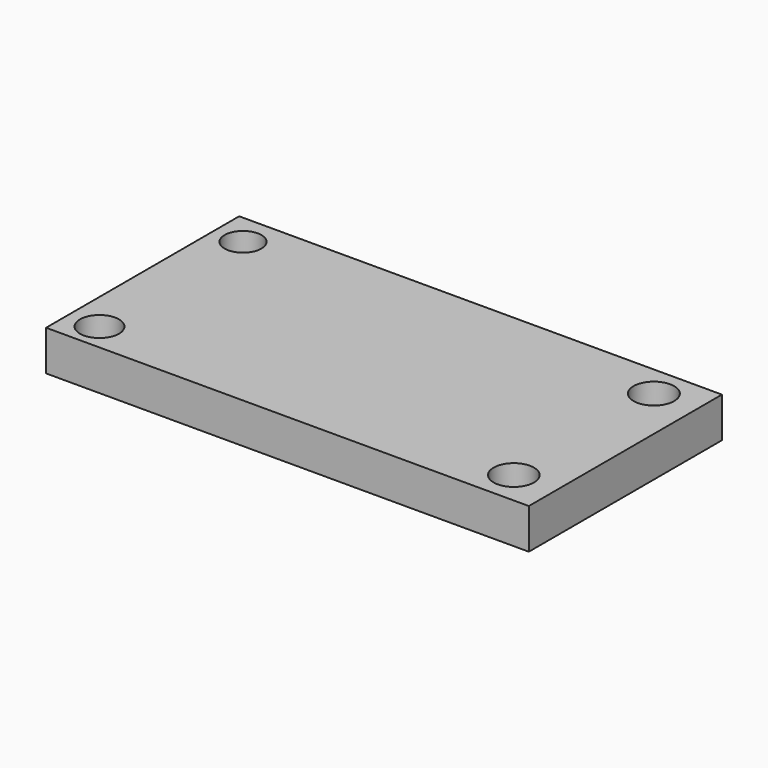
from build123d import *

# Parameters (mm, degrees)
F0_W     = 304.8
F0_H     = 152.4
F1_DEPTH = 12.7
F2_R     = 11.622867
F2_R_2   = 12.321487
F2_R_3   = 12.818207
F2_R_4   = 12.730774
F3_DEPTH = 12.7


with BuildPart() as f1:
    # F0 (on Top) → F1 (new body, symmetric)
    with BuildSketch(Plane.XY):
        Rectangle(F0_W, F0_H)
    extrude(amount=F1_DEPTH, both=True)

    # F2 (on Top) → F3 (cut, symmetric)
    with BuildSketch(Plane.XY):
        with Locations((-133.876547, 56.070849)):
            Circle(F2_R)
        with Locations((-132.619306, -58.75669)):
            Circle(F2_R_2)
        with Locations((125.533119, 56.070849)):
            Circle(F2_R_3)
        with Locations((125.952214, -54.984987)):
            Circle(F2_R_4)
    extrude(amount=F3_DEPTH, both=True, mode=Mode.SUBTRACT)


solid = f1.part
